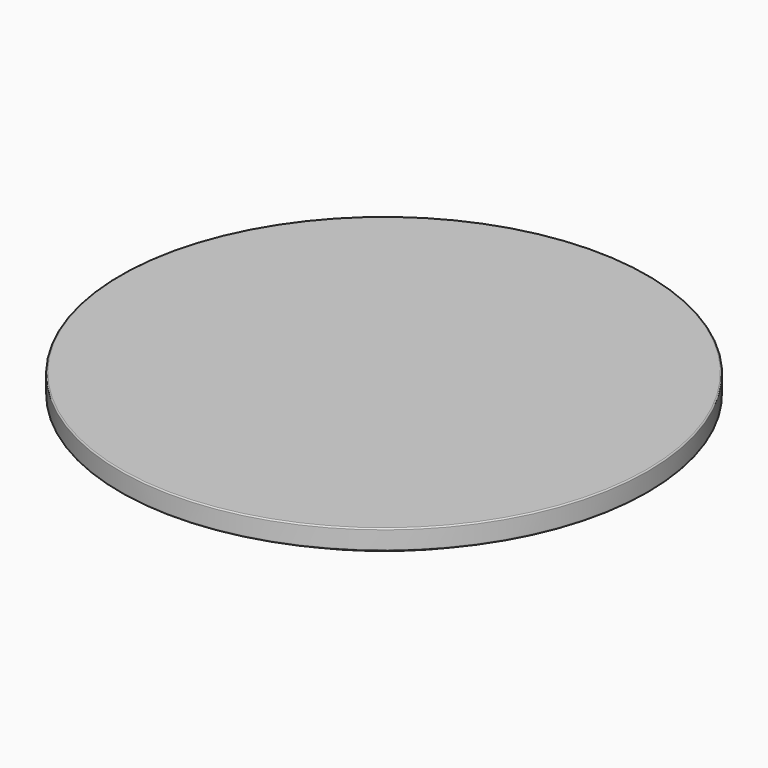
from build123d import *


with BuildPart() as f1:
    # F0 (on Front) → F1 (revolve)
    with BuildSketch(Plane.XZ):
        with BuildLine():
            ThreePointArc((210, 27), (209.707107, 27.707107), (209, 28))
            Line((209, 28), (0, 28))
            Line((0, 28), (0, 12))
            Line((0, 12), (172.321801, 12))
            ThreePointArc((172.321801, 12), (173.607376, 11.532089), (174.291416, 10.347296))
            Line((174.291416, 10.347296), (175.824508, 1.652704))
            ThreePointArc((175.824508, 1.652704), (176.508548, 0.467911), (177.794123, 0))
            Line((177.794123, 0), (186.205877, 0))
            ThreePointArc((186.205877, 0), (187.491452, 0.467911), (188.175492, 1.652704))
            Line((188.175492, 1.652704), (189.708584, 10.347296))
            ThreePointArc((189.708584, 10.347296), (190.392624, 11.532089), (191.678199, 12))
            Line((191.678199, 12), (209, 12))
            ThreePointArc((209, 12), (209.707107, 12.292893), (210, 13))
            Line((210, 13), (210, 27))
        make_face()
    revolve(axis=Axis((0, 0, 14), (0, 0, 1)))


solid = f1.part
